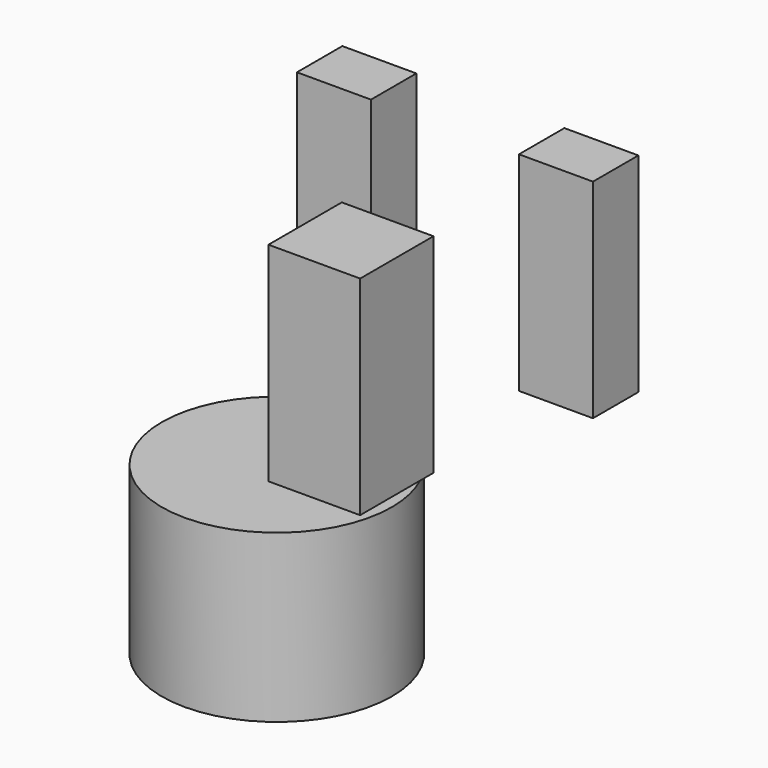
from build123d import *

# Parameters (mm, degrees)
F0_R     = 13.807881
F1_DEPTH = 20
F2_W     = 8.881576
F2_H     = 6.809212
F2_W_2   = 8.881579
F3_DEPTH = 25
F5_DEPTH = 25


with BuildPart() as f1:
    # F0 (on Top) → F1 (new body)
    with BuildSketch(Plane.XY):
        with Locations((-11.926957, 5.963478)):
            Circle(F0_R)
    extrude(amount=F1_DEPTH)

    # F4 (on face) → F5 (join)
    with BuildSketch(Plane.XY.offset(20)):
        Polygon((0.577498, 13.835808), (-10.422502, 13.835808), (-10.422502, 2.835808), (-4.922502, 2.835808), (0.577498, 2.835808), align=None)
    extrude(amount=F5_DEPTH)


with BuildPart() as f3:
    # F2 (on face) → F3 (new body)
    with BuildSketch(Plane.XY.offset(20)):
        with Locations((-25.756581, 35.230268)):
            Rectangle(F2_W, F2_H)
        with Locations((0.888157, 35.230268)):
            Rectangle(F2_W_2, F2_H)
    extrude(amount=F3_DEPTH)


solid = Compound([f1.part, f3.part])
